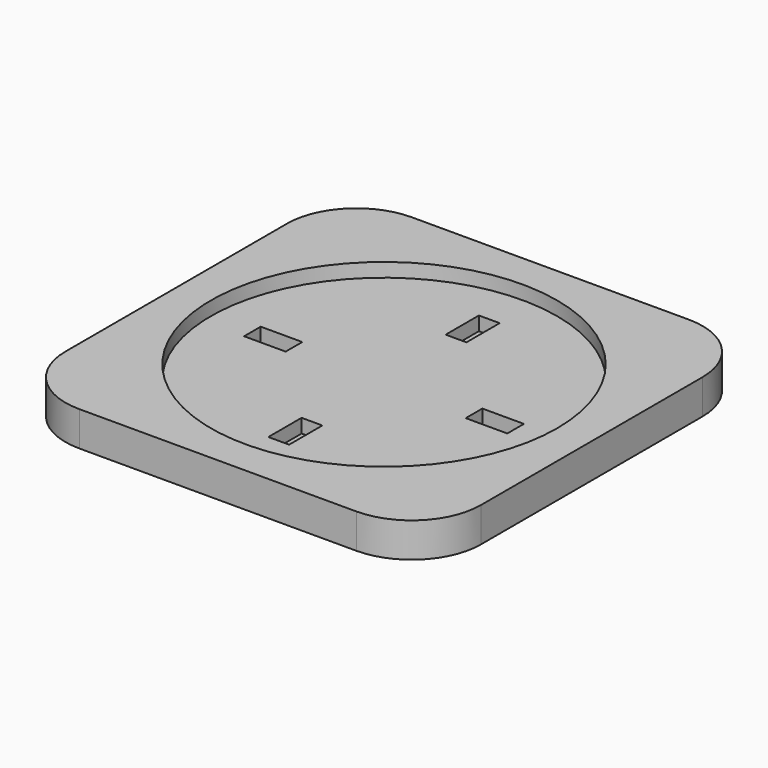
from build123d import *

# Parameters (mm, degrees)
F0_W     = 60
F0_H     = 60
F1_DEPTH = 5
F2_R     = 25
F3_DEPTH = 2
F4_W     = 3
F4_H     = 6
F4_W_2   = 6
F4_H_2   = 3
F5_DEPTH = 2
F6_R     = 10


with BuildPart() as f1:
    # F0 (on Top) → F1 (new body)
    with BuildSketch(Plane.XY):
        Rectangle(F0_W, F0_H)
    extrude(amount=F1_DEPTH)

    # F2 (on face) → F3 (cut)
    with BuildSketch(Plane.XY.offset(5)):
        Circle(F2_R)
    extrude(amount=-F3_DEPTH, mode=Mode.SUBTRACT)

    # F4 (on face) → F5 (cut)
    with BuildSketch(Plane.XY.offset(3)):
        with Locations((0, 16)):
            Rectangle(F4_W, F4_H)
        with Locations((-16, 0)):
            Rectangle(F4_W_2, F4_H_2)
        with Locations((16, 0)):
            Rectangle(F4_W_2, F4_H_2)
        with Locations((0, -16)):
            Rectangle(F4_W, F4_H)
    extrude(amount=-F5_DEPTH, mode=Mode.SUBTRACT)

    # F6
    f6_edges = [f1.edges().sort_by_distance(p)[0] for p in [
        (30, -30, 2.5),
        (30, 30, 2.5),
        (-30, 30, 2.5),
        (-30, -30, 2.5),
    ]]
    fillet(f6_edges, radius=F6_R)


solid = f1.part
